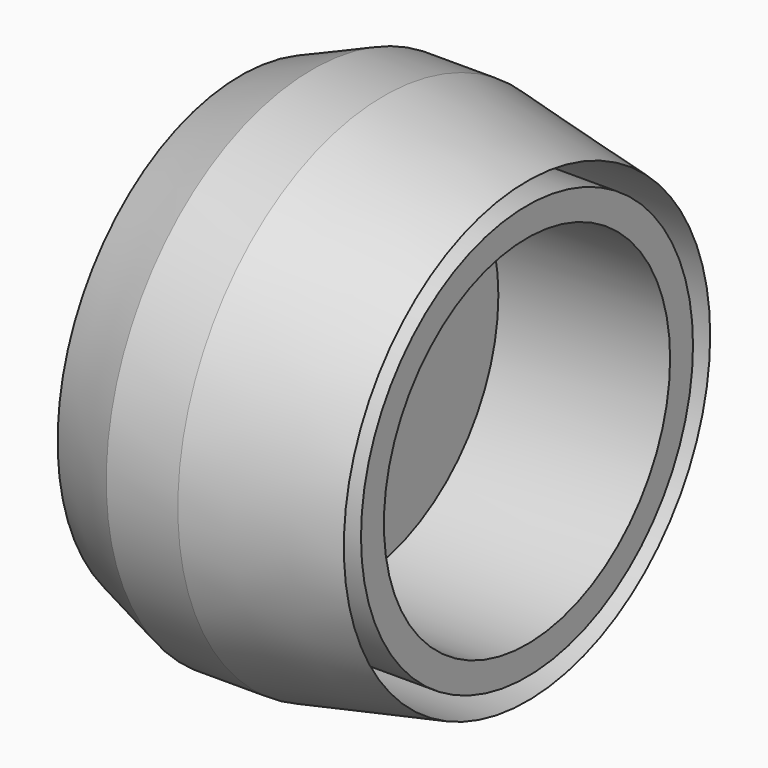
from build123d import *

# Parameters (mm, degrees)
SKETCH022_R      = 9
PAD008_DEPTH     = 10
CHAMFER002_SIZE2 = 1
CHAMFER002_SIZE  = 5
CHAMFER003_SIZE2 = 1
CHAMFER003_SIZE  = 2.5
SKETCH023_R      = 6.25
POCKET014_DEPTH  = 6
SKETCH024_R      = 2
POCKET015_DEPTH  = 5
SKETCH025_R      = 8
SKETCH025_R_2    = 7.25
POCKET016_DEPTH  = 8


with BuildPart() as part:
    # Sketch022 → Pad008 (new body)
    with BuildSketch(Plane.YZ):
        Circle(SKETCH022_R)
    extrude(amount=-PAD008_DEPTH)

    # Chamfer002
    chamfer002_edges = [part.edges().sort_by_distance(p)[0] for p in [
        (0, -9, 0),
    ]]
    chamfer002_side = part.faces().sort_by_distance((-5, -9, 0))[0]
    chamfer(chamfer002_edges, length=CHAMFER002_SIZE, length2=CHAMFER002_SIZE2, reference=chamfer002_side)

    # Chamfer003
    chamfer003_edges = [part.edges().sort_by_distance(p)[0] for p in [
        (-10, -9, 0),
    ]]
    chamfer003_side = part.faces().sort_by_distance((-7.5, -9, 0))[0]
    chamfer(chamfer003_edges, length=CHAMFER003_SIZE, length2=CHAMFER003_SIZE2, reference=chamfer003_side)

    # Sketch023 (on Face5 of Chamfer003) → Pocket014 (cut)
    with BuildSketch(Plane.YZ):
        Circle(SKETCH023_R)
    extrude(amount=-POCKET014_DEPTH, mode=Mode.SUBTRACT)

    # Sketch024 (on Face4 of Pocket014) → Pocket015 (cut)
    with BuildSketch(Plane(origin=(-10, 0, 0), x_dir=(0, 1, 0), z_dir=(-1, 0, 0))):
        Circle(SKETCH024_R)
    extrude(amount=-POCKET015_DEPTH, mode=Mode.SUBTRACT)

    # Sketch025 → Pocket016 (cut)
    with BuildSketch(Plane.YZ):
        Circle(SKETCH025_R)
        Circle(SKETCH025_R_2, mode=Mode.SUBTRACT)
    extrude(amount=-POCKET016_DEPTH, mode=Mode.SUBTRACT)


with BuildPart() as part_1:
    # Body005 placement: moved
    add(part.part.moved(Location((-23, 0, 0))))


solid = part_1.part
